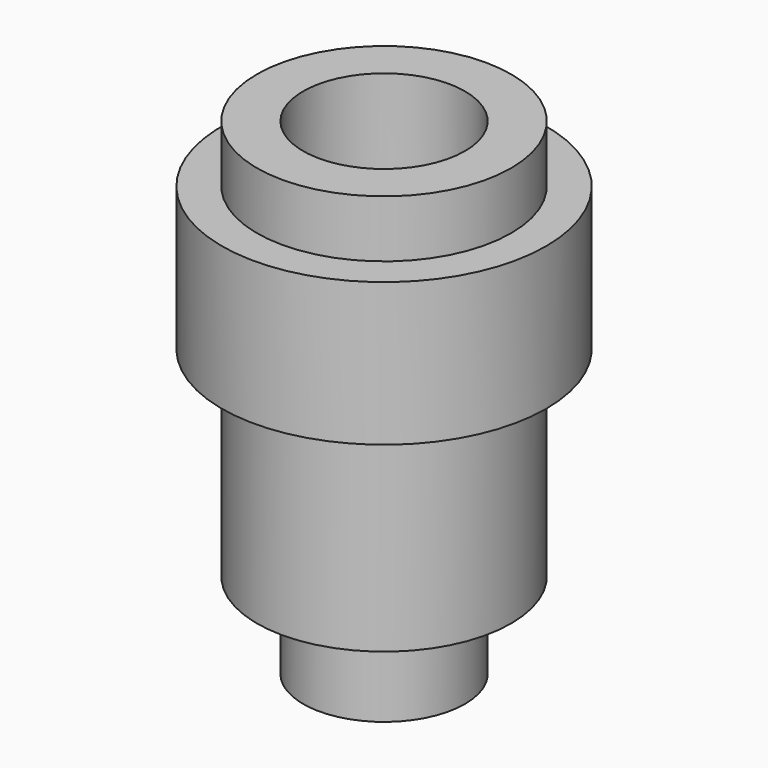
from build123d import *

# Parameters (mm, degrees)
F0_R          = 56.648999
F0_R_2        = 44.401671
F1_DEPTH      = 50
F0_R_3        = 28.269419
F2_DEPTH      = 100
F3_DEPTH      = 70
F3_DEPTH_BACK = 70


with BuildPart() as f1:
    # F0 (on Top) → F1 (new body)
    with BuildSketch(Plane.XY):
        Circle(F0_R)
        Circle(F0_R_2, mode=Mode.SUBTRACT)
    extrude(amount=F1_DEPTH)


with BuildPart() as f2:
    # F0 (on Top) → F2 (new body)
    with BuildSketch(Plane.XY):
        Circle(F0_R_3)
    extrude(amount=-F2_DEPTH)


with BuildPart() as f3:
    # F0 (on Top) → F3 (new body, two sides)
    with BuildSketch(Plane.XY) as f3_sk:
        Circle(F0_R_2)
        Circle(F0_R_3, mode=Mode.SUBTRACT)
    extrude(amount=F3_DEPTH)
    extrude(f3_sk.sketch, amount=-F3_DEPTH_BACK)


solid = Compound([f1.part, f2.part, f3.part])
